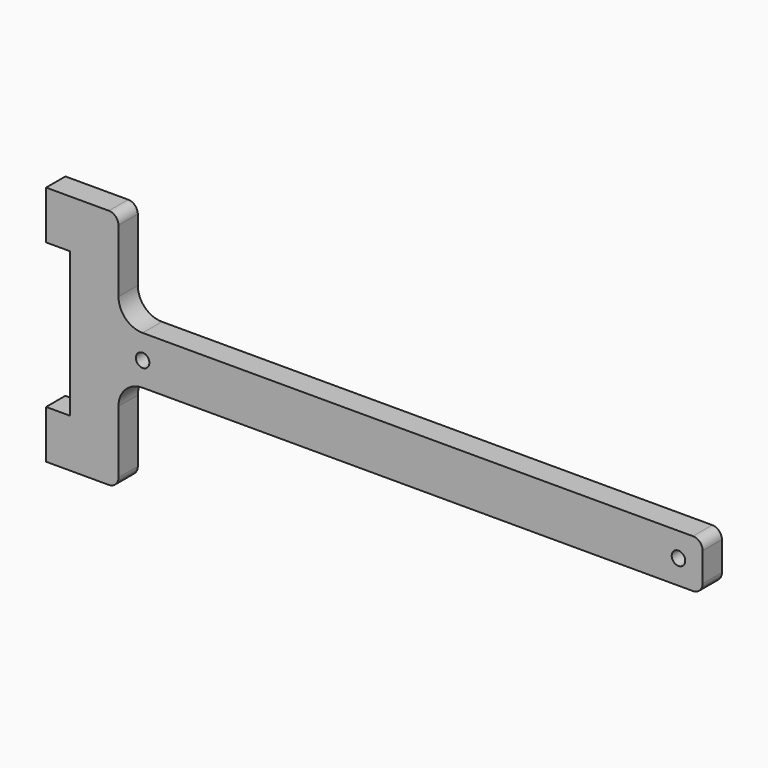
from build123d import *

# Parameters (mm, degrees)
F0_R     = 1.4
F1_DEPTH = 5


with BuildPart() as f1:
    # F0 (on Front) → F1 (new body)
    with BuildSketch(Plane.XZ):
        with BuildLine():
            ThreePointArc((-5, -10), (-3.535534, -6.464466), (0, -5))
            Line((0, -5), (114, -5))
            ThreePointArc((114, -5), (115.414214, -4.414214), (116, -3))
            Line((116, -3), (116, 3))
            ThreePointArc((116, 3), (115.414214, 4.414214), (114, 5))
            Line((114, 5), (0, 5))
            ThreePointArc((0, 5), (-3.535534, 6.464466), (-5, 10))
            Line((-5, 10), (-5, 23))
            ThreePointArc((-5, 23), (-5.585786, 24.414214), (-7, 25))
            Line((-7, 25), (-15, 25))
            Line((-15, 25), (-20, 25))
            Line((-20, 25), (-20, 15))
            Line((-20, 15), (-15, 15))
            Line((-15, 15), (-15, -15))
            Line((-15, -15), (-20, -15))
            Line((-20, -15), (-20, -25))
            Line((-20, -25), (-15, -25))
            Line((-15, -25), (-7, -25))
            ThreePointArc((-7, -25), (-5.585786, -24.414214), (-5, -23))
            Line((-5, -23), (-5, -10))
        make_face()
        Circle(F0_R, mode=Mode.SUBTRACT)
        with Locations((111, 0)):
            Circle(F0_R, mode=Mode.SUBTRACT)
    extrude(amount=F1_DEPTH)


solid = f1.part
